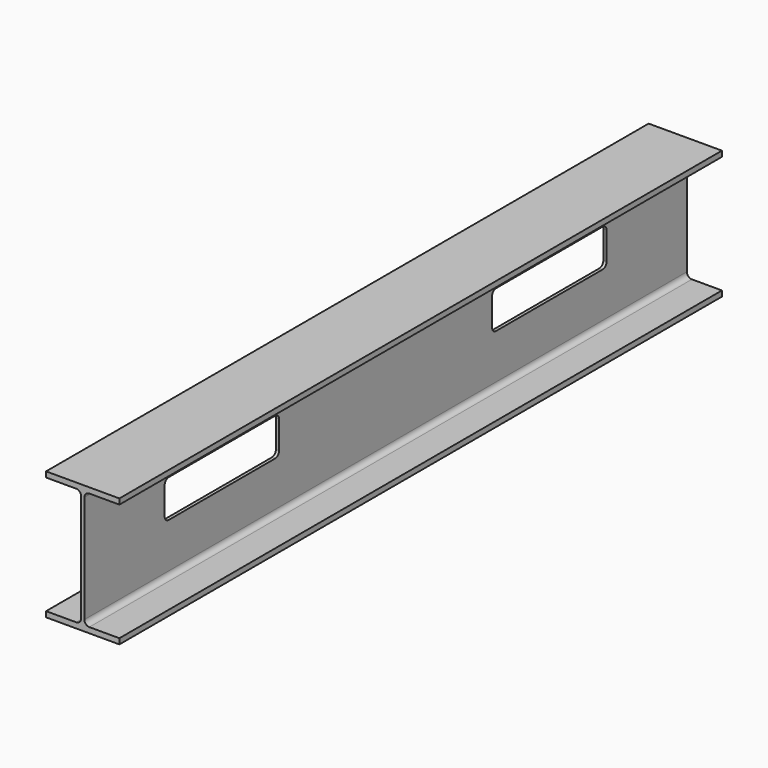
from build123d import *

# Parameters (mm, degrees)
F1_DEPTH = 1500
F3_DEPTH = 76.201


with BuildPart() as f1:
    # F0 (on Front) → F1 (new body)
    with BuildSketch(Plane.XZ):
        with BuildLine():
            Line((73, 108.31944), (0, 108.31944))
            Line((0, 108.31944), (-73, 108.31944))
            Line((-73, 108.31944), (-73, 97.41944))
            Line((-73, 97.41944), (-13.2, 97.41944))
            ThreePointArc((-13.2, 97.41944), (-6.128932, 94.490508), (-3.2, 87.41944))
            Line((-3.2, 87.41944), (-3.2, -126.78056))
            ThreePointArc((-3.2, -126.78056), (-6.128932, -133.851628), (-13.2, -136.78056))
            Line((-13.2, -136.78056), (-73, -136.78056))
            Line((-73, -136.78056), (-73, -147.68056))
            Line((-73, -147.68056), (0, -147.68056))
            Line((0, -147.68056), (73, -147.68056))
            Line((73, -147.68056), (73, -136.78056))
            Line((73, -136.78056), (13.2, -136.78056))
            ThreePointArc((13.2, -136.78056), (6.128932, -133.851628), (3.2, -126.78056))
            Line((3.2, -126.78056), (3.2, 87.41944))
            ThreePointArc((3.2, 87.41944), (6.128932, 94.490508), (13.2, 97.41944))
            Line((13.2, 97.41944), (73, 97.41944))
            Line((73, 97.41944), (73, 108.31944))
        make_face()
    extrude(amount=-F1_DEPTH)

    # F2 (on face) → F3 (cut, through all)
    with BuildSketch(Plane.YZ.offset(3.2)):
        with BuildLine():
            Line((475, 37.5), (210, 37.5))
            ThreePointArc((210, 37.5), (202.928932, 34.571068), (200, 27.5))
            Line((200, 27.5), (200, -27.5))
            ThreePointArc((200, -27.5), (202.928932, -34.571068), (210, -37.5))
            Line((210, -37.5), (475, -37.5))
            ThreePointArc((475, -37.5), (482.071068, -34.571068), (485, -27.5))
            Line((485, -27.5), (485, 27.5))
            ThreePointArc((485, 27.5), (482.071068, 34.571068), (475, 37.5))
        make_face()
        with BuildLine():
            Line((1290, 37.5), (1025, 37.5))
            ThreePointArc((1025, 37.5), (1017.928932, 34.571068), (1015, 27.5))
            Line((1015, 27.5), (1015, -27.5))
            ThreePointArc((1015, -27.5), (1017.928932, -34.571068), (1025, -37.5))
            Line((1025, -37.5), (1290, -37.5))
            ThreePointArc((1290, -37.5), (1297.071068, -34.571068), (1300, -27.5))
            Line((1300, -27.5), (1300, 27.5))
            ThreePointArc((1300, 27.5), (1297.071068, 34.571068), (1290, 37.5))
        make_face()
    extrude(amount=-F3_DEPTH, mode=Mode.SUBTRACT)


solid = f1.part
